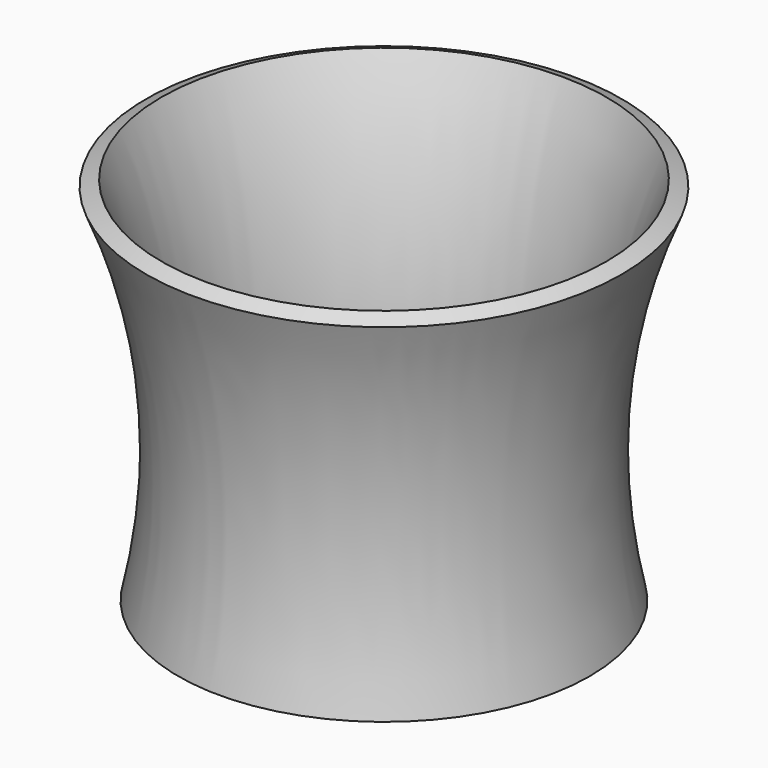
from build123d import *


with BuildPart() as f1:
    # F0 (on Front) → F1 (revolve)
    with BuildSketch(Plane.XZ):
        with BuildLine():
            Line((0, 2), (0, 0))
            Line((0, 0), (24.8354, 0))
            ThreePointArc((24.8354, 0), (23.28088, 22.286295), (28.699406, 43.959667))
            Line((28.699406, 43.959667), (26.85908, 44.742738))
            ThreePointArc((26.85908, 44.742738), (21.408891, 23.70816), (22.364831, 2))
            Line((22.364831, 2), (0, 2))
        make_face()
    revolve(axis=Axis((0, 0, 1), (0, 0, -1)))


solid = f1.part
